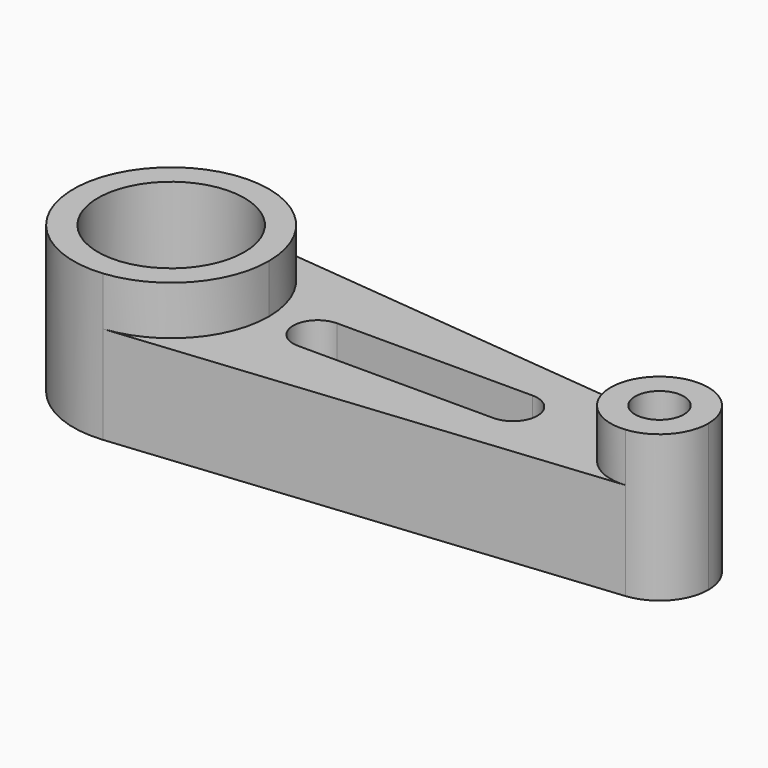
from build123d import *

# Parameters (mm, degrees)
F0_R     = 19.05
F1_DEPTH = 25.4
F2_DEPTH = 38.1


with BuildPart() as f1:
    # F0 (on Top) → F1 (new body)
    with BuildSketch(Plane.XY):
        with BuildLine():
            ThreePointArc((90.17, -12.63634), (80.380581, -9.418572), (76.2, 0))
            ThreePointArc((76.2, 0), (80.380581, 9.418572), (90.17, 12.63634))
            Line((90.17, 12.63634), (-35.56, 25.272681))
            ThreePointArc((-35.56, 25.272681), (-19.262856, 17.038838), (-12.7, 0))
            ThreePointArc((-12.7, 0), (-19.262856, -17.038838), (-35.56, -25.272681))
            Line((-35.56, -25.272681), (90.17, -12.63634))
        make_face()
        with BuildLine():
            ThreePointArc((0, -6.35), (-6.35, 0), (0, 6.35))
            Line((0, 6.35), (50.8, 6.35))
            ThreePointArc((50.8, 6.35), (55.290128, 4.490128), (57.15, 0))
            ThreePointArc((57.15, 0), (55.290128, -4.490128), (50.8, -6.35))
            Line((50.8, -6.35), (0, -6.35))
        make_face(mode=Mode.SUBTRACT)
        with BuildLine():
            ThreePointArc((95.25, 0), (88.9, 6.35), (82.55, 0))
            ThreePointArc((82.55, 0), (88.9, -6.35), (95.25, 0))
        make_face()
        with BuildLine():
            ThreePointArc((90.17, 12.63634), (80.380581, 9.418572), (76.2, 0))
            ThreePointArc((76.2, 0), (80.380581, -9.418572), (90.17, -12.63634))
            ThreePointArc((90.17, -12.63634), (98.318572, -8.519419), (101.6, 0))
            ThreePointArc((101.6, 0), (98.318572, 8.519419), (90.17, 12.63634))
        make_face()
        with BuildLine():
            ThreePointArc((95.25, 0), (88.9, -6.35), (82.55, 0))
            ThreePointArc((82.55, 0), (88.9, 6.35), (95.25, 0))
        make_face(mode=Mode.SUBTRACT)
        with BuildLine():
            ThreePointArc((-12.7, 0), (-19.262856, 17.038838), (-35.56, 25.272681))
            ThreePointArc((-35.56, 25.272681), (-63.5, 0), (-35.56, -25.272681))
            ThreePointArc((-35.56, -25.272681), (-19.262856, -17.038838), (-12.7, 0))
        make_face()
        with Locations((-38.1, 0)):
            Circle(F0_R, mode=Mode.SUBTRACT)
    extrude(amount=F1_DEPTH)

    # F0 (on Top) → F2 (join)
    with BuildSketch(Plane.XY):
        with BuildLine():
            ThreePointArc((-12.7, 0), (-19.262856, 17.038838), (-35.56, 25.272681))
            ThreePointArc((-35.56, 25.272681), (-63.5, 0), (-35.56, -25.272681))
            ThreePointArc((-35.56, -25.272681), (-19.262856, -17.038838), (-12.7, 0))
        make_face()
        with Locations((-38.1, 0)):
            Circle(F0_R, mode=Mode.SUBTRACT)
        with BuildLine():
            ThreePointArc((90.17, 12.63634), (80.380581, 9.418572), (76.2, 0))
            ThreePointArc((76.2, 0), (80.380581, -9.418572), (90.17, -12.63634))
            ThreePointArc((90.17, -12.63634), (98.318572, -8.519419), (101.6, 0))
            ThreePointArc((101.6, 0), (98.318572, 8.519419), (90.17, 12.63634))
        make_face()
        with BuildLine():
            ThreePointArc((95.25, 0), (88.9, -6.35), (82.55, 0))
            ThreePointArc((82.55, 0), (88.9, 6.35), (95.25, 0))
        make_face(mode=Mode.SUBTRACT)
    extrude(amount=F2_DEPTH)


solid = f1.part
